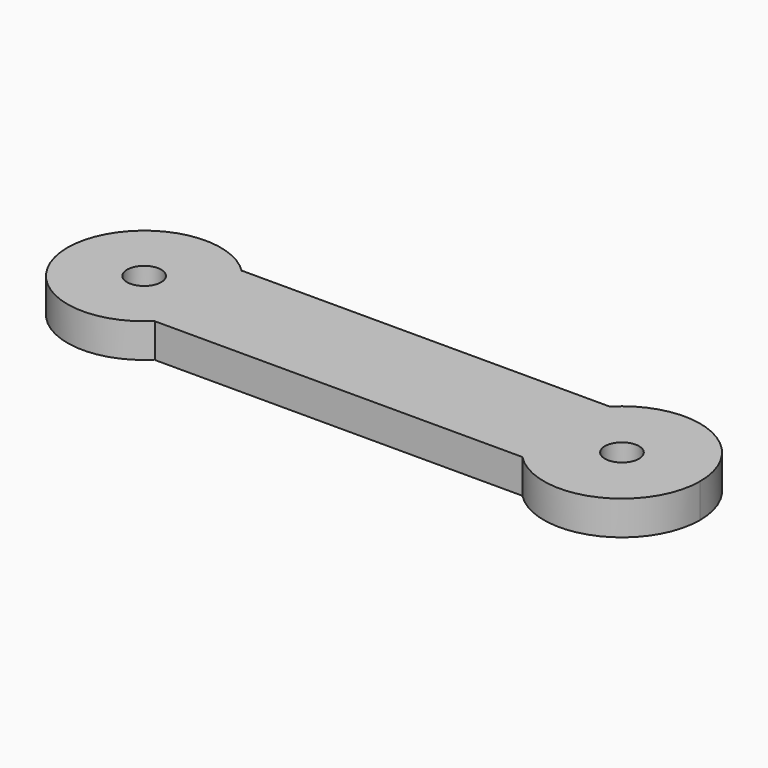
from build123d import *

# Parameters (mm, degrees)
F0_R     = 1.25
F1_DEPTH = 2.5


with BuildPart() as f1:
    # F0 (on Top) → F1 (new body)
    with BuildSketch(Plane.XY):
        with BuildLine():
            Line((0, -4), (0, 0))
            Line((0, 0), (-0.0945953157, 0))
            ThreePointArc((-0.0945953157, 0), (-1.7241340654, -4), (-0.0945953157, -8))
            Line((-0.0945953157, -8), (0, -8))
            Line((0, -8), (0, -4))
        make_face()
        with BuildLine():
            Line((-0.0945953157, 0), (0, 0))
            Line((0, 0), (0, -4))
            Line((0, -4), (0, -8))
            Line((0, -8), (-0.0945953157, -8))
            ThreePointArc((-0.0945953157, -8), (6.159594669, -9.3011189069), (9.7241340654, -4))
            ThreePointArc((9.7241340654, -4), (6.159594669, 1.3011189069), (-0.0945953157, 0))
        make_face()
        with BuildLine():
            ThreePointArc((5.25, -4), (4, -5.25), (2.75, -4))
            ThreePointArc((2.75, -4), (4, -2.75), (5.25, -4))
        make_face(mode=Mode.SUBTRACT)
        with BuildLine():
            ThreePointArc((-0.0945953157, -8), (-1.7241340654, -4), (-0.0945953157, 0))
            Line((-0.0945953157, 0), (-27, 0))
            Line((-27, 0), (-27, -0.058367438))
            ThreePointArc((-27, -0.058367438), (-25.8038763073, -1.870031497), (-25.3842660984, -4))
            ThreePointArc((-25.3842660984, -4), (-25.8038763073, -6.129968503), (-27, -7.941632562))
            Line((-27, -7.941632562), (-27, -8))
            Line((-27, -8), (-0.0945953157, -8))
        make_face()
        with BuildLine():
            ThreePointArc((-25.3842660984, -4), (-25.8038763073, -1.870031497), (-27, -0.058367438))
            Line((-27, -0.058367438), (-27, -4))
            Line((-27, -4), (-27, -7.941632562))
            ThreePointArc((-27, -7.941632562), (-25.8038763073, -6.129968503), (-25.3842660984, -4))
        make_face()
        with BuildLine():
            Line((-27, -4), (-27, -0.058367438))
            ThreePointArc((-27, -0.058367438), (-36.6157339016, -4), (-27, -7.941632562))
            Line((-27, -7.941632562), (-27, -4))
        make_face()
        with Locations((-31, -4)):
            Circle(F0_R, mode=Mode.SUBTRACT)
    extrude(amount=F1_DEPTH)


solid = f1.part
